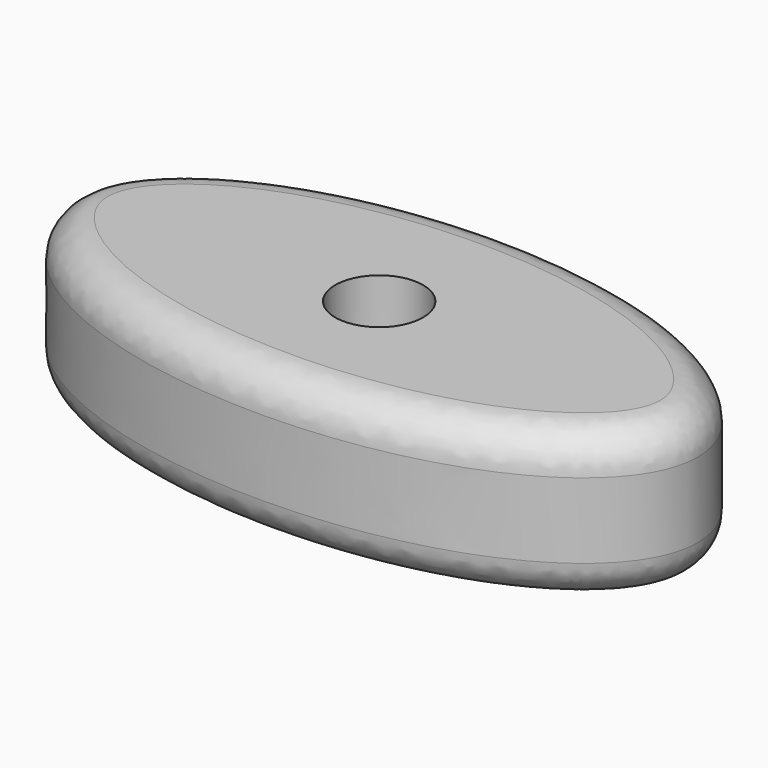
from build123d import *

# Parameters (mm, degrees)
F0_R      = 11
F0_R_2    = 3.5
F1_DEPTH  = 2
F2_R      = 11
F1_FACE_R = 3.5
F3_DEPTH  = 10
F4_R      = 3


with BuildPart() as f1:
    # F0 (on Top) → F1 (new body)
    with BuildSketch(Plane.XY):
        with BuildLine():
            add(Edge.make_bspline(
                [(25, 0), (25, 21.650635), (-12.5, 10.825318), (-50, 0), (-12.5, -10.825318), (25, -21.650635), (25, 0)],
                knots=[0, 0, 0, 2.094395, 2.094395, 4.18879, 4.18879, 6.283185, 6.283185, 6.283185], degree=2, weights=[1, 0.5, 1, 0.5, 1, 0.5, 1]))
        make_face()
        Circle(F0_R, mode=Mode.SUBTRACT)
        Circle(F0_R)
        with Locations((0, -0.481509)):
            Circle(F0_R_2, mode=Mode.SUBTRACT)
    extrude(amount=-F1_DEPTH)

    # F2 (on face) + F1_face (on face) → F3 (join)
    with BuildSketch(Plane.XY):
        with BuildLine():
            add(Edge.make_bspline(
                [(25, 0), (25, 21.650635), (-12.5, 10.825318), (-50, 0), (-12.5, -10.825318), (25, -21.650635), (25, 0)],
                knots=[0, 0, 0, 2.094395, 2.094395, 4.18879, 4.18879, 6.283185, 6.283185, 6.283185], degree=2, weights=[1, 0.5, 1, 0.5, 1, 0.5, 1]))
        make_face()
        Circle(F2_R, mode=Mode.SUBTRACT)
    with BuildSketch(Plane(origin=(0.138209, 0.019734, 0), x_dir=(1, 0, 0), z_dir=(0, 0, 1))):
        with BuildLine():
            add(Edge.make_bspline(
                [(24.861791, -0.019734), (24.861791, 21.630901), (-12.638209, 10.805584), (-50.138209, -0.019734), (-12.638209, -10.845051), (24.861791, -21.670369), (24.861791, -0.019734)],
                knots=[0, 0, 0, 2.094395, 2.094395, 4.18879, 4.18879, 6.283185, 6.283185, 6.283185], degree=2, weights=[1, 0.5, 1, 0.5, 1, 0.5, 1]))
        make_face()
        with Locations((-0.138209, -0.501243)):
            Circle(F1_FACE_R, mode=Mode.SUBTRACT)
        with BuildLine():
            add(Edge.make_bspline(
                [(24.861791, -0.019734), (24.861791, 21.630901), (-12.638209, 10.805584), (-50.138209, -0.019734), (-12.638209, -10.845051), (24.861791, -21.670369), (24.861791, -0.019734)],
                knots=[0, 0, 0, 2.094395, 2.094395, 4.18879, 4.18879, 6.283185, 6.283185, 6.283185], degree=2, weights=[1, 0.5, 1, 0.5, 1, 0.5, 1]))
        make_face()
        with Locations((-0.138209, -0.501243)):
            Circle(F1_FACE_R, mode=Mode.SUBTRACT)
    extrude(amount=F3_DEPTH)

    # F4
    f4_edges = [f1.edges().sort_by_distance(p)[0] for p in [
        (-25, 3e-06, -2),
        (-25, 3e-06, 10),
    ]]
    fillet(f4_edges, radius=F4_R)


solid = f1.part
